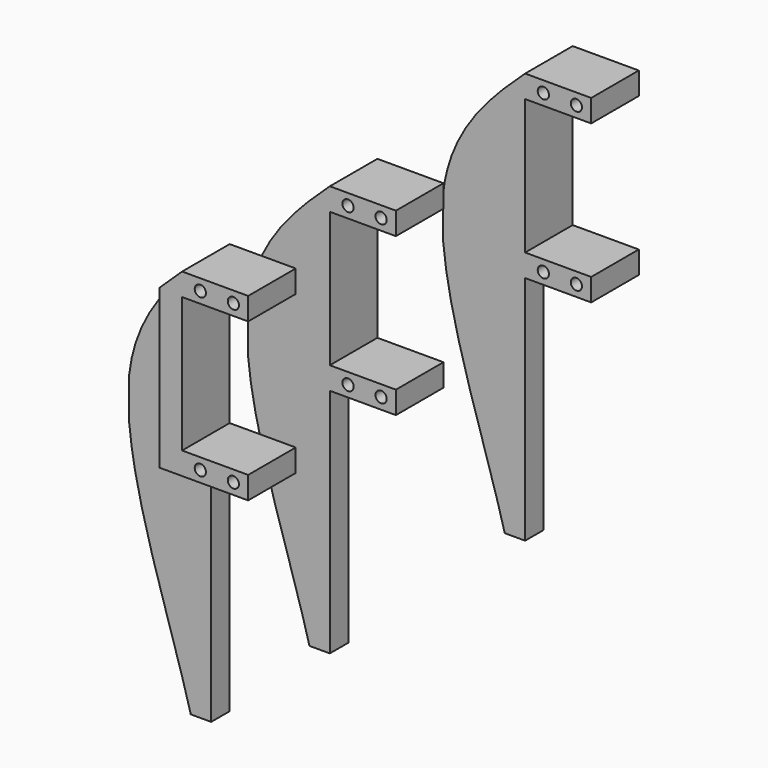
from build123d import *

# Parameters (mm, degrees)
F0_W      = 26.8
F0_H      = 54.5
F1_DEPTH  = 18
F2_W      = 20
F2_H      = 40.9
F3_DEPTH  = 18.001
F4_R      = 1.7
F5_DEPTH  = 18.001
F6_W      = 6.8
F6_H      = 18
F7_DEPTH  = 70
F8_W      = 11
F8_H      = 70
F9_DEPTH  = 26.801
F10_W     = 7
F10_H     = 124.5
F11_DEPTH = 18
F13_DEPTH = 18.001


with BuildPart() as f1:
    # F0 (on Front) → F1 (new body)
    with BuildSketch(Plane.XZ):
        Rectangle(F0_W, F0_H)
    extrude(amount=F1_DEPTH)

    # F2 (on face) → F3 (cut, through all)
    with BuildSketch(Plane.XZ.offset(18)):
        with Locations((3.4, 0)):
            Rectangle(F2_W, F2_H)
    extrude(amount=-F3_DEPTH, mode=Mode.SUBTRACT)

    # F4 (on face) → F5 (cut, through all)
    with BuildSketch(Plane.XZ.offset(18)):
        with Locations((8.92, 23.85)):
            Circle(F4_R)
        with Locations((-1.08, 23.85)):
            Circle(F4_R)
        with Locations((-1.08, -23.85)):
            Circle(F4_R)
        with Locations((8.92, -23.85)):
            Circle(F4_R)
    extrude(amount=-F5_DEPTH, mode=Mode.SUBTRACT)

    # F6 (on face) → F7 (join)
    with BuildSketch(Plane(origin=(0, 0, -27.25), x_dir=(1, 0, 0), z_dir=(0, 0, -1))):
        with Locations((-10, 9)):
            Rectangle(F6_W, F6_H)
    extrude(amount=F7_DEPTH)

    # F8 (on face) → F9 (cut, through all)
    with BuildSketch(Plane(origin=(-13.4, 0, 0), x_dir=(0, -1, 0), z_dir=(-1, 0, 0))):
        with Locations((5.5, -62.25)):
            Rectangle(F8_W, F8_H)
    extrude(amount=-F9_DEPTH, mode=Mode.SUBTRACT)

    # F10 (on face) → F11 (join)
    with BuildSketch(Plane(origin=(-13.4, 0, 0), x_dir=(0, -1, 0), z_dir=(-1, 0, 0))):
        with Locations((14.5, -35)):
            Rectangle(F10_W, F10_H)
    extrude(amount=F11_DEPTH)

    # F12 (on face) → F13 (cut, through all)
    with BuildSketch(Plane.XZ.offset(18)):
        with BuildLine():
            add(Edge.make_bspline(
                [(-31.4, -25.7230665718), (-29.3489756649, -48.5563409346), (-18.147413292, -76.668632288), (-12.7745065838, -97.25)],
                knots=[0.5208274602, 0.5208274602, 0.5208274602, 0.5208274602, 1, 1, 1, 1], degree=3))
            Line((-31.4, -25.7230665718), (-31.4, -97.25))
            Line((-31.4, -97.25), (-12.7745065838, -97.25))
        make_face()
        with BuildLine():
            Line((-31.4, -25.7230665718), (-31.4, -12.6439807937))
            add(Edge.make_bspline(
                [(-31.4, -12.6439807937), (-31.8551944938, -16.71820023), (-31.8141009626, -21.1130379481), (-31.4, -25.7230665718)],
                knots=[0.4240827231, 0.4240827231, 0.4240827231, 0.4240827231, 0.5208274602, 0.5208274602, 0.5208274602, 0.5208274602], degree=3))
        make_face()
        with BuildLine():
            add(Edge.make_bspline(
                [(-6.6, 27.25), (-17.8729816936, 16.9141171862), (-29.4046447342, 5.2154514191), (-31.4, -12.6439807937)],
                knots=[0, 0, 0, 0, 0.4240827231, 0.4240827231, 0.4240827231, 0.4240827231], degree=3))
            Line((-6.6, 27.25), (-31.4, 27.25))
            Line((-31.4, 27.25), (-31.4, -12.6439807937))
        make_face()
    extrude(amount=-F13_DEPTH, mode=Mode.SUBTRACT)


with BuildPart() as f14_1:
    # F14: copy of F1
    add(f1.part.moved(Location((0, 73.9, 0))))


with BuildPart() as f15_1:
    # F15: instance of F14_1
    add(f14_1.part.mirror(Plane.XZ))


solid = Compound([f1.part, f14_1.part, f15_1.part])
